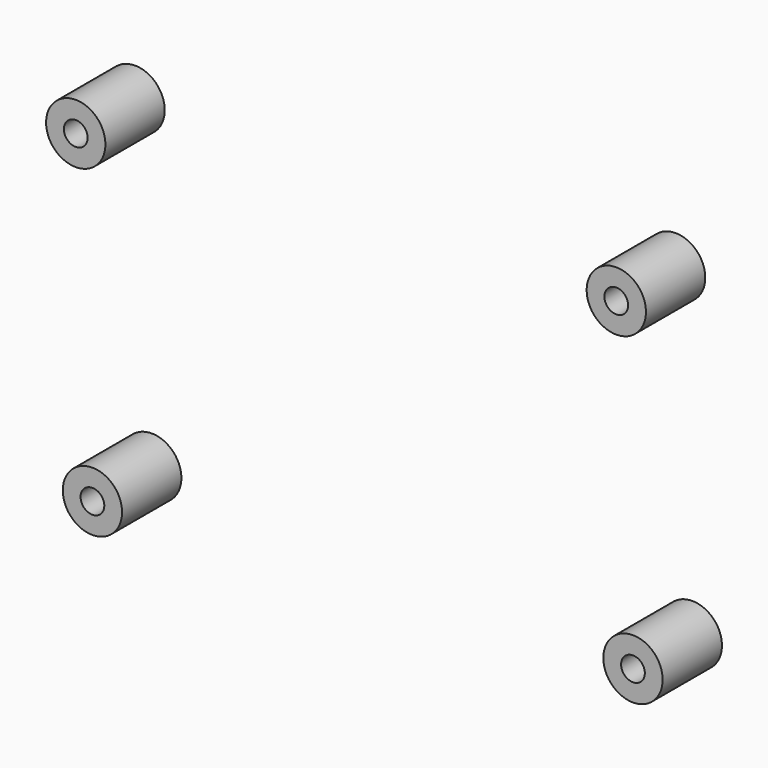
from build123d import *

# Parameters (mm, degrees)
CYLINDER123_R             = 1.6
CYLINDER123_DEPTH         = 25
CYLINDER122_R             = 1.6
CYLINDER122_DEPTH         = 25
CYLINDER124_R             = 1.6
CYLINDER124_DEPTH         = 25
CYLINDER125_R             = 1.6
CYLINDER125_DEPTH         = 25
FUSION105_PLACEMENT_ANGLE = 3
CYLINDER119_R             = 4
CYLINDER119_DEPTH         = 10
CYLINDER118_R             = 4
CYLINDER118_DEPTH         = 10
CYLINDER120_R             = 4
CYLINDER120_DEPTH         = 10
CYLINDER121_R             = 4
CYLINDER121_DEPTH         = 10
FUSION104_PLACEMENT_ANGLE = 3


with BuildPart() as cylinder123:
    # Cylinder123 → Cylinder123 (new body)
    with BuildSketch(Plane(origin=(76.5, 96, 46.5), x_dir=(1, 0, 0), z_dir=(0, -1, 0))):
        Circle(CYLINDER123_R)
    extrude(amount=CYLINDER123_DEPTH)


with BuildPart() as cylinder122:
    # Cylinder122 → Cylinder122 (new body)
    with BuildSketch(Plane(origin=(76.5, 96, 3.5), x_dir=(1, 0, 0), z_dir=(0, -1, 0))):
        Circle(CYLINDER122_R)
    extrude(amount=CYLINDER122_DEPTH)


with BuildPart() as cylinder124:
    # Cylinder124 → Cylinder124 (new body)
    with BuildSketch(Plane(origin=(3.5, 96, 46.5), x_dir=(1, 0, 0), z_dir=(0, -1, 0))):
        Circle(CYLINDER124_R)
    extrude(amount=CYLINDER124_DEPTH)


with BuildPart() as fusion105:
    # Cylinder125 → Cylinder125 (new body)
    with BuildSketch(Plane(origin=(3.5, 96, 3.5), x_dir=(1, 0, 0), z_dir=(0, -1, 0))):
        Circle(CYLINDER125_R)
    extrude(amount=CYLINDER125_DEPTH)

    # Fusion105: union Cylinder123, Cylinder122, Cylinder124
    add(cylinder123.part)
    add(cylinder122.part)
    add(cylinder124.part)


with BuildPart() as fusion105_1:
    # Fusion105 placement: moved
    add(fusion105.part.moved(Location((306, 25, -55))).rotate(Axis((306, 25, -55), (0, -1, 0)), FUSION105_PLACEMENT_ANGLE))


with BuildPart() as cylinder119:
    # Cylinder119 → Cylinder119 (new body)
    with BuildSketch(Plane(origin=(76.5, 96, 46.5), x_dir=(1, 0, 0), z_dir=(0, -1, 0))):
        Circle(CYLINDER119_R)
    extrude(amount=CYLINDER119_DEPTH)


with BuildPart() as cylinder118:
    # Cylinder118 → Cylinder118 (new body)
    with BuildSketch(Plane(origin=(76.5, 96, 3.5), x_dir=(1, 0, 0), z_dir=(0, -1, 0))):
        Circle(CYLINDER118_R)
    extrude(amount=CYLINDER118_DEPTH)


with BuildPart() as cylinder120:
    # Cylinder120 → Cylinder120 (new body)
    with BuildSketch(Plane(origin=(3.5, 96, 46.5), x_dir=(1, 0, 0), z_dir=(0, -1, 0))):
        Circle(CYLINDER120_R)
    extrude(amount=CYLINDER120_DEPTH)


with BuildPart() as cut064:
    # Cylinder121 → Cylinder121 (new body)
    with BuildSketch(Plane(origin=(3.5, 96, 3.5), x_dir=(1, 0, 0), z_dir=(0, -1, 0))):
        Circle(CYLINDER121_R)
    extrude(amount=CYLINDER121_DEPTH)

    # Fusion104: union Cylinder119, Cylinder118, Cylinder120
    add(cylinder119.part)
    add(cylinder118.part)
    add(cylinder120.part)


with BuildPart() as cut064_1:
    # Fusion104 placement: moved
    add(cut064.part.moved(Location((306, 15, -55))).rotate(Axis((306, 15, -55), (0, -1, 0)), FUSION104_PLACEMENT_ANGLE))

    # Cut064: cut Fusion105
    add(fusion105_1.part, mode=Mode.SUBTRACT)


with BuildPart() as cut064_2:
    # Cut064 placement: moved
    add(cut064_1.part.moved(Location((0, -5, 0))))


solid = cut064_2.part
